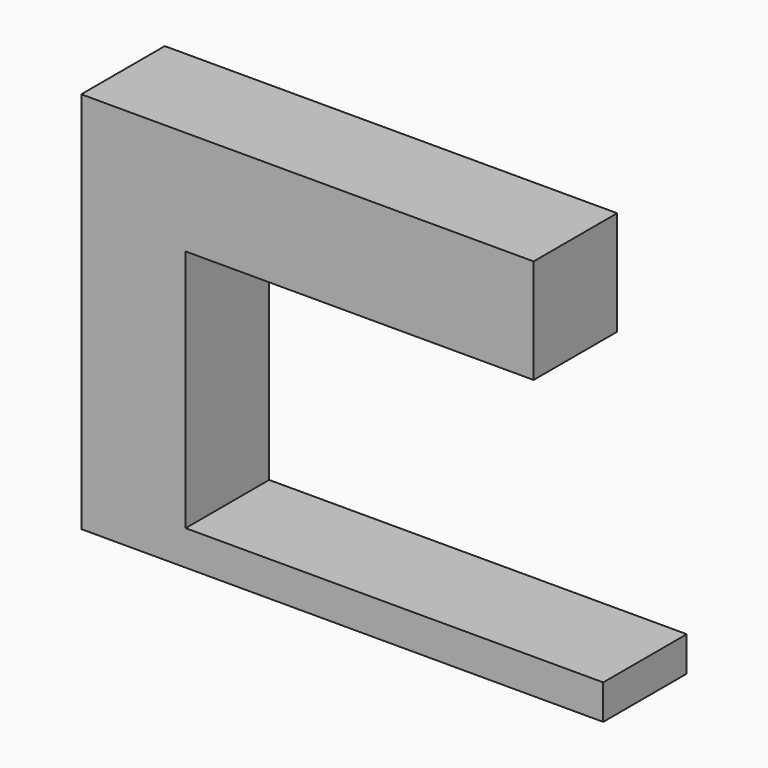
from build123d import *

# Parameters (mm, degrees)
F0_W     = 15
F0_H     = 3
F1_DEPTH = 1
F2_W     = 3
F2_H     = 3
F3_DEPTH = 10
F4_W     = 3
F4_H     = 3
F5_DEPTH = 10


with BuildPart() as f1:
    # F0 (on Top) → F1 (new body)
    with BuildSketch(Plane.XY):
        Rectangle(F0_W, F0_H)
    extrude(amount=F1_DEPTH)

    # F2 (on face) → F3 (join)
    with BuildSketch(Plane.XY.offset(1)):
        with Locations((-6, 0)):
            Rectangle(F2_W, F2_H)
    extrude(amount=F3_DEPTH)

    # F4 (on face) → F5 (join)
    with BuildSketch(Plane.YZ.offset(-4.5)):
        with Locations((0, 9.5)):
            Rectangle(F4_W, F4_H)
    extrude(amount=F5_DEPTH)


solid = f1.part
